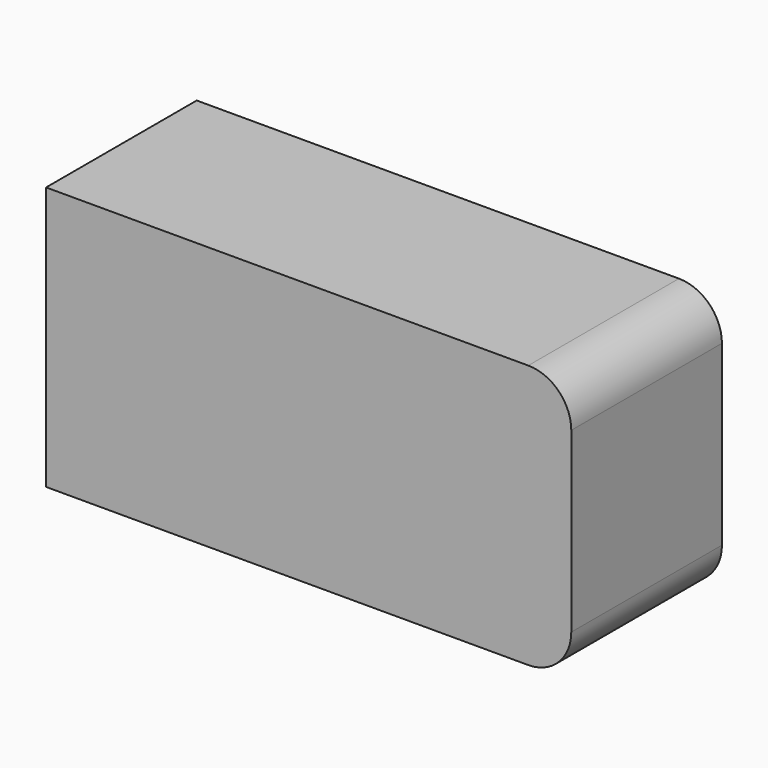
from build123d import *

# Parameters (mm, degrees)
F1_DEPTH = 13.14
F2_T     = -2.5


with BuildPart() as f1:
    # F0 (on Front) → F1 (new body)
    with BuildSketch(Plane.XZ):
        with BuildLine():
            Line((-18.325, -9.2), (15.325, -9.2))
            ThreePointArc((15.325, -9.2), (17.44632, -8.32132), (18.325, -6.2))
            Line((18.325, -6.2), (18.325, 6.2))
            ThreePointArc((18.325, 6.2), (17.44632, 8.32132), (15.325, 9.2))
            Line((15.325, 9.2), (-18.325, 9.2))
            Line((-18.325, 9.2), (-18.325, -9.2))
        make_face()
    extrude(amount=F1_DEPTH)

    # F2
    f2_openings = [f1.faces().sort_by_distance(p)[0] for p in [
        (-18.325, -6.57, 0),
    ]]
    offset(amount=F2_T, openings=f2_openings)


solid = f1.part
